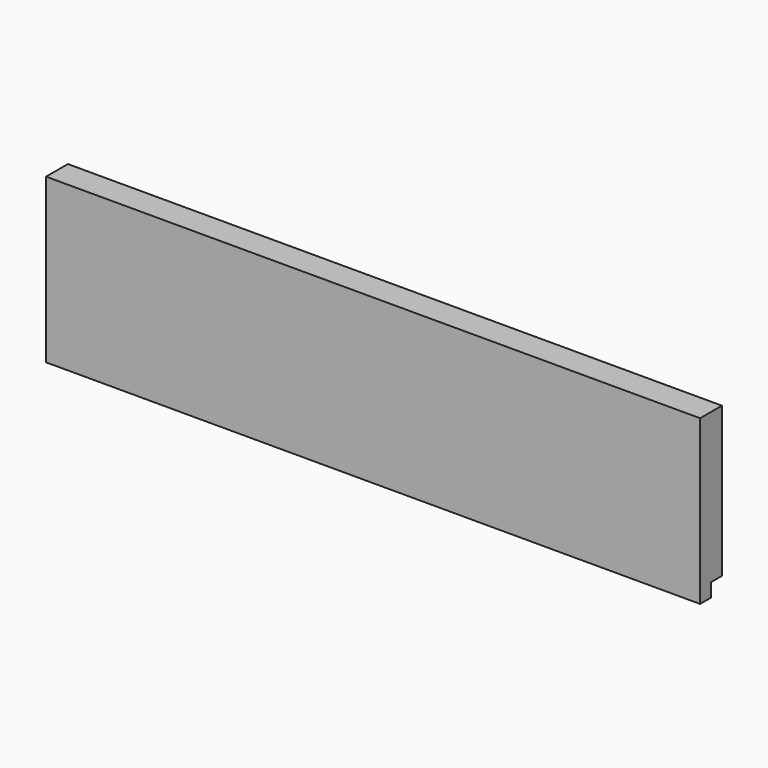
from build123d import *

# Parameters (mm, degrees)
F0_W     = 480
F0_H     = 110
F1_DEPTH = 10
F0_H_2   = 10
F2_DEPTH = 10


with BuildPart() as f1:
    # F0 (on Front) → F1 (new body, symmetric)
    with BuildSketch(Plane.XZ):
        with Locations((0, 5)):
            Rectangle(F0_W, F0_H)
    extrude(amount=F1_DEPTH, both=True)

    # F0 (on Front) → F2 (join)
    with BuildSketch(Plane.XZ):
        with Locations((0, 5)):
            Rectangle(F0_W, F0_H)
        with Locations((0, -55)):
            Rectangle(F0_W, F0_H_2)
    extrude(amount=F2_DEPTH)


solid = f1.part
